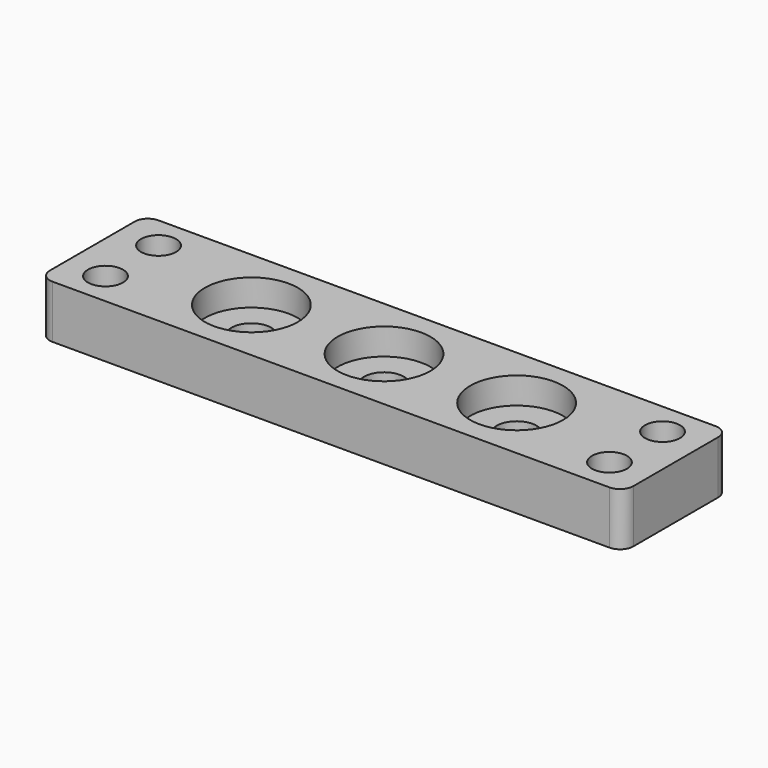
from build123d import *

# Parameters (mm, degrees)
F0_W     = 220
F0_H     = 50
F0_R     = 7.5
F1_DEPTH = 20
F2_D     = 13.2
F3_R     = 5
F4_R     = 17.5
F4_R_2   = 7.5
F5_DEPTH = 10


with BuildPart() as f1:
    # F0 (on Top) → F1 (new body)
    with BuildSketch(Plane.XY):
        Rectangle(F0_W, F0_H)
        with Locations((-50, 0)):
            Circle(F0_R, mode=Mode.SUBTRACT)
        Circle(F0_R, mode=Mode.SUBTRACT)
        with Locations((50, 0)):
            Circle(F0_R, mode=Mode.SUBTRACT)
    extrude(amount=F1_DEPTH)

    # F2 (through all)
    with Locations(Plane(origin=(0, 0, 0), x_dir=(1, 0, 0), z_dir=(0, 0, -1))):
        with Locations((-95, -12.5), (-95, 12.5), (95, -12.5), (95, 12.5)):
            Hole(F2_D / 2)

    # F3
    f3_edges = [f1.edges().sort_by_distance(p)[0] for p in [
        (-110, -25, 10),
        (110, -25, 10),
        (110, 25, 10),
        (-110, 25, 10),
    ]]
    fillet(f3_edges, radius=F3_R)

    # F4 (on face) → F5 (cut)
    with BuildSketch(Plane.XY.offset(20)):
        with Locations((-50, 0)):
            Circle(F4_R)
        with Locations((-50, 0)):
            Circle(F4_R_2, mode=Mode.SUBTRACT)
        with Locations((50, 0)):
            Circle(F4_R)
        with Locations((50, 0)):
            Circle(F4_R_2, mode=Mode.SUBTRACT)
        Circle(F4_R)
        Circle(F4_R_2, mode=Mode.SUBTRACT)
    extrude(amount=-F5_DEPTH, mode=Mode.SUBTRACT)


solid = f1.part
